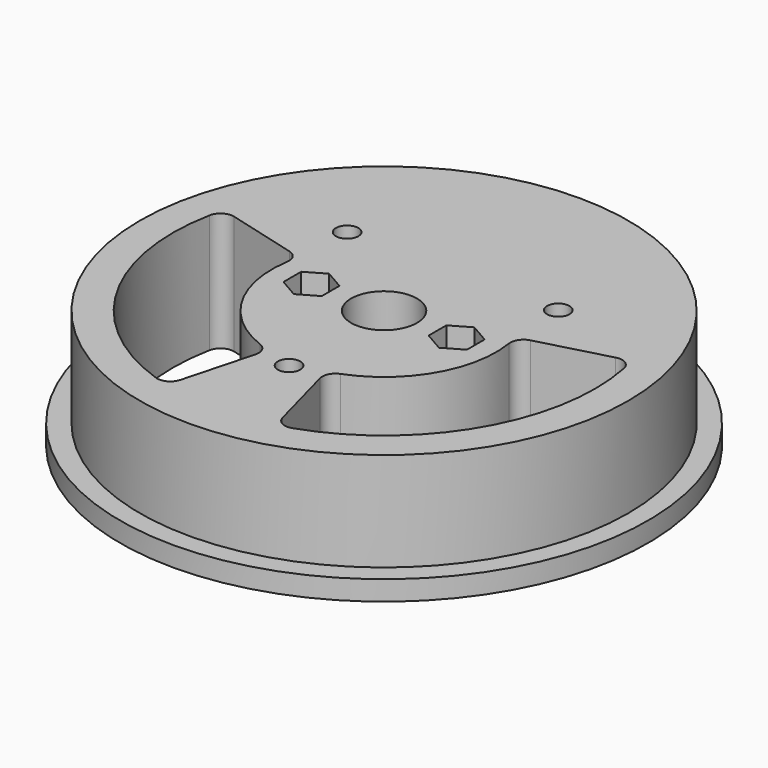
from build123d import *

# Parameters (mm, degrees)
POCKET_DEPTH    = 13
SKETCH002_R     = 1.7
POCKET001_DEPTH = 17
POCKET002_DEPTH = 1.5
SKETCH004_R     = 5
POCKET003_DEPTH = 18.001
SKETCH005_R     = 8.2
POCKET004_DEPTH = 9
SKETCH006_W     = 30.6
SKETCH006_H     = 7
POCKET005_DEPTH = 4
SKETCH007_R     = 1.7
POCKET006_DEPTH = 14.001
POCKET007_DEPTH = 11
POCKET008_DEPTH = 247.121056
SKETCH010_R     = 1.7
POCKET009_DEPTH = 18.001
SKETCH011_R     = 2.95
POCKET010_DEPTH = 3


with BuildPart() as part:
    # Sketch → Revolution (revolve)
    with BuildSketch(Plane.XZ):
        Polygon((0, 18), (37, 18), (37, 3), (40, 3), (40, 0), (0, 0), align=None)
    revolve(axis=Axis((0, 0, 0), (0, 0, 1)))

    # Sketch001 (on Face5 of Revolution) → Pocket (cut)
    with BuildSketch(Plane(origin=(0, 0, 0), x_dir=(1, 0, 0), z_dir=(0, 0, -1))):
        Polygon((-11.5, -19.5), (11.5, -19.5), (11.5, -23), (5, -29.5), (5, -54.5), (2.5, -54.5), (2.5, -29.5), (9, -23), (-9, -23), (-2.5, -29.5), (-2.5, -54.5), (-5, -54.5), (-5, -29.5), (-11.5, -23), align=None)
    extrude(amount=-POCKET_DEPTH, mode=Mode.SUBTRACT)

    # Sketch002 (on DatumPlane) → Pocket001 (cut)
    with BuildSketch(Plane.XZ.offset(-40)):
        with Locations((0, 6.5)):
            Circle(SKETCH002_R)
    extrude(amount=POCKET001_DEPTH, mode=Mode.SUBTRACT)

    # Sketch003 (on DatumPlane) → Pocket002 (cut, symmetric)
    with BuildSketch(Plane.XZ.offset(-25.85)):
        Polygon((0, 9.85), (-2.901185, 8.175), (-2.901185, -1.825), (2.901185, -1.825), (2.901185, 8.175), align=None)
    extrude(amount=POCKET002_DEPTH, both=True, mode=Mode.SUBTRACT)

    # Sketch004 (on Face1 of Pocket002) → Pocket003 (cut, through all)
    with BuildSketch(Plane(origin=(0, 0, 18), x_dir=(-1, 0, 0), z_dir=(0, 0, 1))):
        Circle(SKETCH004_R)
    extrude(amount=-POCKET003_DEPTH, mode=Mode.SUBTRACT)

    # Sketch005 (on Face12 of Pocket003) → Pocket004 (cut)
    with BuildSketch(Plane(origin=(0, 0, 0), x_dir=(1, 0, 0), z_dir=(0, 0, -1))):
        Circle(SKETCH005_R)
    extrude(amount=-POCKET004_DEPTH, mode=Mode.SUBTRACT)

    # Sketch006 (on Face14 of Pocket004) → Pocket005 (cut)
    with BuildSketch(Plane(origin=(0, 0, 0), x_dir=(1, 0, 0), z_dir=(0, 0, -1))):
        Rectangle(SKETCH006_W, SKETCH006_H)
    extrude(amount=-POCKET005_DEPTH, mode=Mode.SUBTRACT)

    # Sketch007 (on Face39 of Pocket005) → Pocket006 (cut, through all)
    with BuildSketch(Plane(origin=(0, 0, 4), x_dir=(1, 0, 0), z_dir=(0, 0, -1))):
        with Locations((-11, 0)):
            Circle(SKETCH007_R)
        with Locations((11, 0)):
            Circle(SKETCH007_R)
    extrude(amount=-POCKET006_DEPTH, mode=Mode.SUBTRACT)

    # Sketch008 (on Face1 of Pocket006) → Pocket007 (cut)
    with BuildSketch(Plane(origin=(0, 0, 18), x_dir=(-1, 0, 0), z_dir=(0, 0, 1))):
        Polygon((11, 3.35), (8.098815, 1.675), (8.098815, -1.675), (11, -3.35), (13.901185, -1.675), (13.901185, 1.675), align=None)
        Polygon((-11, 3.35), (-13.901185, 1.675), (-13.901185, -1.675), (-11, -3.35), (-8.098815, -1.675), (-8.098815, 1.675), align=None)
    extrude(amount=-POCKET007_DEPTH, mode=Mode.SUBTRACT)

    # Sketch009 (on Face29 of Pocket007) → Pocket008 (cut, through all)
    with BuildSketch(Plane(origin=(0, 0, 0), x_dir=(1, 0, 0), z_dir=(0, 0, -1))):
        with BuildLine():
            ThreePointArc((16.792662, -2.646981), (14.722432, 8.5), (6.103978, 15.866362))
            ThreePointArc((4.890242, 18.250631), (5.039745, 16.82567), (6.103978, 15.866362))
            Line((4.890242, 18.250631), (7.747298, 28.913308))
            ThreePointArc((10.324426, 30.288715), (8.737473, 30.160109), (7.747298, 28.913308))
            ThreePointArc((31.393009, -6.203142), (27.712813, 16), (10.324426, 30.288715))
            ThreePointArc((28.913308, -7.747298), (30.488157, -7.513181), (31.393009, -6.203142))
            Line((18.250631, -4.890242), (28.913308, -7.747298))
            ThreePointArc((16.792662, -2.646981), (17.091331, -4.048288), (18.250631, -4.890242))
        make_face()
    pocket008 = extrude(amount=-POCKET008_DEPTH, mode=Mode.SUBTRACT)

    # Mirrored: Pocket008 across Sketch009 V_Axis
    add(pocket008.mirror(Plane(origin=(0, 0, 0), x_dir=(0, 0, -1), z_dir=(1, 0, 0))), mode=Mode.SUBTRACT)

    # Sketch010 (on Face43 of Mirrored) → Pocket009 (cut, through all)
    with BuildSketch(Plane(origin=(0, 0, 0), x_dir=(1, 0, 0), z_dir=(0, 0, -1))):
        with Locations((0, 18)):
            Circle(SKETCH010_R)
        with Locations((-16, -13)):
            Circle(SKETCH010_R)
        with Locations((16, -13)):
            Circle(SKETCH010_R)
    extrude(amount=-POCKET009_DEPTH, mode=Mode.SUBTRACT)

    # Sketch011 (on Face43 of Pocket009) → Pocket010 (cut)
    with BuildSketch(Plane(origin=(0, 0, 0), x_dir=(1, 0, 0), z_dir=(0, 0, -1))):
        with Locations((0, 18)):
            Circle(SKETCH011_R)
        with Locations((16, -13)):
            Circle(SKETCH011_R)
        with Locations((-16, -13)):
            Circle(SKETCH011_R)
    extrude(amount=-POCKET010_DEPTH, mode=Mode.SUBTRACT)


solid = part.part
